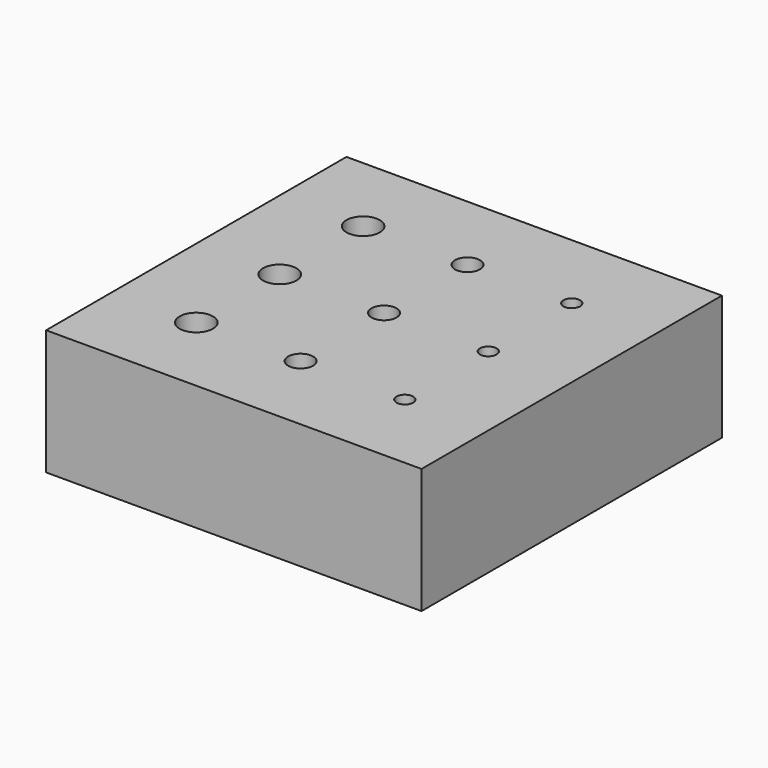
from build123d import *

# Parameters (mm, degrees)
SKETCH_R   = 0.4
SKETCH_R_2 = 0.3
SKETCH_R_3 = 0.2
PAD_DEPTH  = 3


with BuildPart() as part:
    # Sketch → Pad (new body)
    with BuildSketch(Plane.XY):
        Polygon((0, 0), (9, 0), (9, 9), (0, 9), (0, 7), (0, 4.5), (0, 2), align=None)
        with Locations((2, 2)):
            Circle(SKETCH_R, mode=Mode.SUBTRACT)
        with Locations((4.5, 2)):
            Circle(SKETCH_R_2, mode=Mode.SUBTRACT)
        with Locations((7, 2)):
            Circle(SKETCH_R_3, mode=Mode.SUBTRACT)
        with Locations((2, 4.5)):
            Circle(SKETCH_R, mode=Mode.SUBTRACT)
        with Locations((4.5, 4.5)):
            Circle(SKETCH_R_2, mode=Mode.SUBTRACT)
        with Locations((7, 4.5)):
            Circle(SKETCH_R_3, mode=Mode.SUBTRACT)
        with Locations((2, 7)):
            Circle(SKETCH_R, mode=Mode.SUBTRACT)
        with Locations((4.5, 7)):
            Circle(SKETCH_R_2, mode=Mode.SUBTRACT)
        with Locations((7, 7)):
            Circle(SKETCH_R_3, mode=Mode.SUBTRACT)
    extrude(amount=PAD_DEPTH)


solid = part.part
